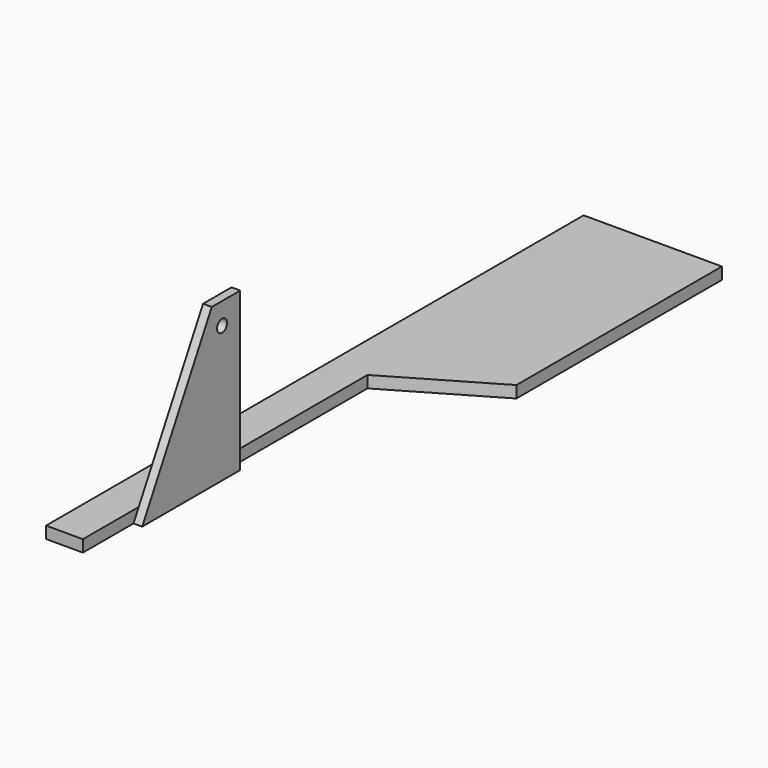
from build123d import *

# Parameters (mm, degrees)
PAD_DEPTH       = 3
SKETCH001_W     = 2
SKETCH001_H     = 6
POCKET_DEPTH    = 5
PAD001_DEPTH    = 2.2
SKETCH003_R     = 1.571244
POCKET001_DEPTH = 5


with BuildPart() as part:
    # Sketch → Pad (new body)
    with BuildSketch(Plane.XY):
        Polygon((0, -50), (9.32, -50), (9.32, 40), (35, 55), (35, 120), (0, 120), align=None)
    extrude(amount=PAD_DEPTH)

    # Sketch001 (on Face7 of Pad) → Pocket (cut)
    with BuildSketch(Plane(origin=(0, 0, 0), x_dir=(1, 0, 0), z_dir=(0, 0, -1))):
        with Locations((1, 0)):
            Rectangle(SKETCH001_W, SKETCH001_H)
    extrude(amount=-POCKET_DEPTH, mode=Mode.SUBTRACT)

    # Sketch002 (on Face3 of Pocket) → Pad001 (join)
    with BuildSketch(Plane.YZ.offset(9.32)):
        Polygon((-3, 0), (-3, 40), (-12, 40), (-34, 0), align=None)
    extrude(amount=PAD001_DEPTH)

    # Sketch003 (on Face18 of Pad001) → Pocket001 (cut)
    with BuildSketch(Plane.YZ.offset(11.52)):
        with Locations((-8.751605, 34.485332)):
            Circle(SKETCH003_R)
    extrude(amount=-POCKET001_DEPTH, mode=Mode.SUBTRACT)


solid = part.part
